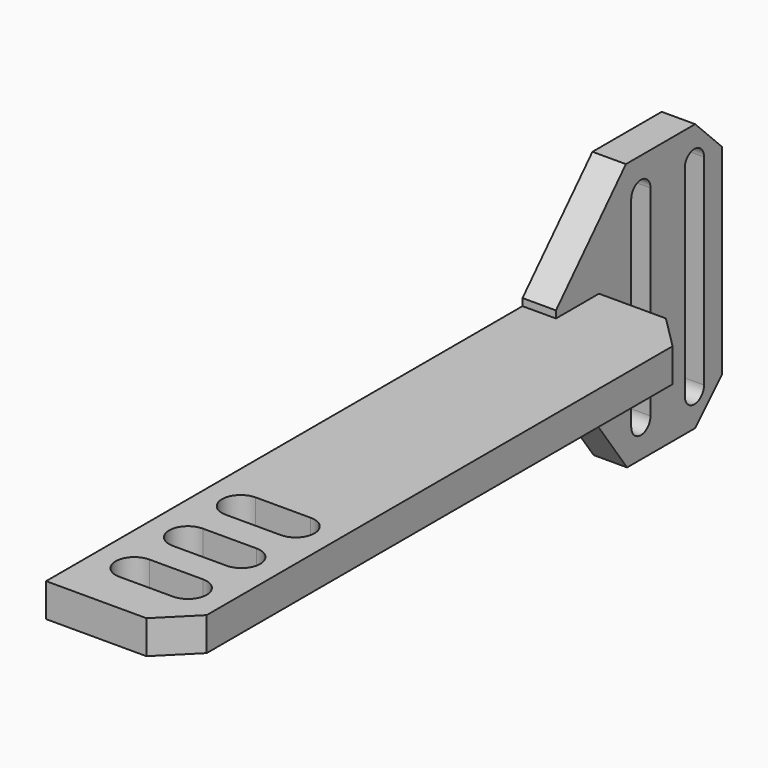
from build123d import *

# Parameters (mm, degrees)
SKETCH_W          = 20
SKETCH_H          = 120
PAD_DEPTH         = 5
SKETCH001_W       = 15.635981
SKETCH001_H       = 23
POCKET_DEPTH      = 5.001
SKETCH002_W       = 5
SKETCH002_H       = 31
PAD001_DEPTH      = 15
PAD001_DEPTH_BACK = 25
POCKET001_DEPTH   = 5
CHAMFER_SIZE      = 5


with BuildPart() as part:
    # Sketch → Pad (new body)
    with BuildSketch(Plane.XY):
        with Locations((0, 60)):
            Rectangle(SKETCH_W, SKETCH_H)
    extrude(amount=PAD_DEPTH)

    # Sketch001 → Pocket (cut, through all)
    with BuildSketch(Plane.XY.offset(5)):
        with BuildLine():
            ThreePointArc((-4, 11.8), (-6.8, 9), (-4, 6.2))
            Line((-4, 6.2), (4, 6.2))
            ThreePointArc((4, 6.2), (6.8, 9), (4, 11.8))
            Line((-4, 11.8), (4, 11.8))
        make_face()
        with BuildLine():
            ThreePointArc((-4, 21.8), (-6.8, 19), (-4, 16.2))
            Line((-4, 16.2), (4, 16.2))
            ThreePointArc((4, 16.2), (6.8, 19), (4, 21.8))
            Line((-4, 21.8), (4, 21.8))
        make_face()
        with Locations((2.81799, 108.532179)):
            Rectangle(SKETCH001_W, SKETCH001_H)
        with BuildLine():
            ThreePointArc((-4.113055, 31.8), (-6.913055, 29), (-4.113055, 26.2))
            Line((-4.113055, 26.2), (4.113055, 26.2))
            ThreePointArc((4.113055, 26.2), (6.913055, 29), (4.113055, 31.8))
            Line((-4.113055, 31.8), (4.113055, 31.8))
        make_face()
    extrude(amount=-POCKET_DEPTH, mode=Mode.SUBTRACT)

    # Sketch002 → Pad001 (new body, two sides)
    with BuildSketch(Plane.XY.offset(5)) as pad001_sk:
        with Locations((-7.5, 104.5)):
            Rectangle(SKETCH002_W, SKETCH002_H)
    extrude(amount=PAD001_DEPTH)
    extrude(pad001_sk.sketch, amount=-PAD001_DEPTH_BACK)

    # Sketch003 → Pocket001 (cut)
    with BuildSketch(Plane.YZ.offset(-5)):
        with BuildLine():
            ThreePointArc((116.657567, 15), (114.857567, 16.8), (113.057567, 15))
            Line((113.057567, 15), (113.057567, -15))
            ThreePointArc((113.057567, -15), (114.857567, -16.8), (116.657567, -15))
            Line((116.657567, 15), (116.657567, -15))
        make_face()
        with BuildLine():
            ThreePointArc((106.657567, 15), (104.857567, 16.8), (103.057567, 15))
            Line((103.057567, 15), (103.057567, -15))
            ThreePointArc((103.057567, -15), (104.857567, -16.8), (106.657567, -15))
            Line((106.657567, 15), (106.657567, -15))
        make_face()
        Polygon((88, 5), (103, 21), (88, 21), align=None)
        Polygon((88, 0), (103, -21), (88, -21), align=None)
    extrude(amount=-POCKET001_DEPTH, mode=Mode.SUBTRACT)

    # Chamfer
    chamfer_edges = [part.edges().sort_by_distance(p)[0] for p in [
        (10, 0, 2.5),
        (10, 97.032179, 2.5),
        (-7.5, 120, 20),
        (-7.5, 120, -20),
    ]]
    chamfer(chamfer_edges, length=CHAMFER_SIZE)


solid = part.part
